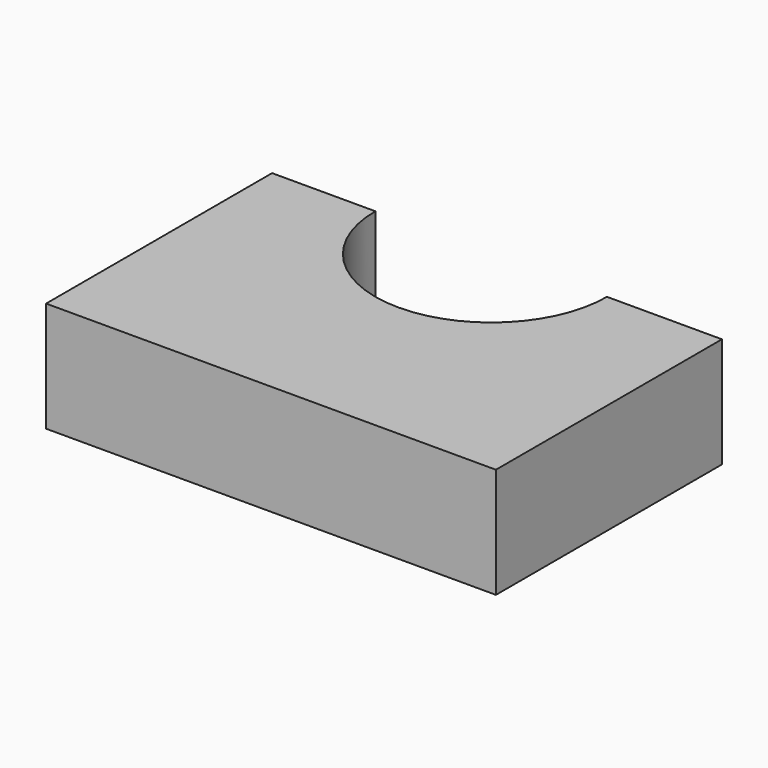
from build123d import *

# Parameters (mm, degrees)
F1_DEPTH = 16.9418


with BuildPart() as f1:
    # F0 (on Top) → F1 (new body)
    with BuildSketch(Plane.XY):
        with BuildLine():
            Line((37.238074, 27.518638), (19.565525, 27.518638))
            ThreePointArc((19.565525, 27.518638), (1.760125, 9.713238), (-16.045275, 27.518638))
            Line((-16.045275, 27.518638), (-31.926126, 27.518638))
            Line((-31.926126, 27.518638), (-31.926126, -15.915362))
            Line((-31.926126, -15.915362), (37.238074, -15.915362))
            Line((37.238074, -15.915362), (37.238074, 27.518638))
        make_face()
    extrude(amount=F1_DEPTH)


solid = f1.part
